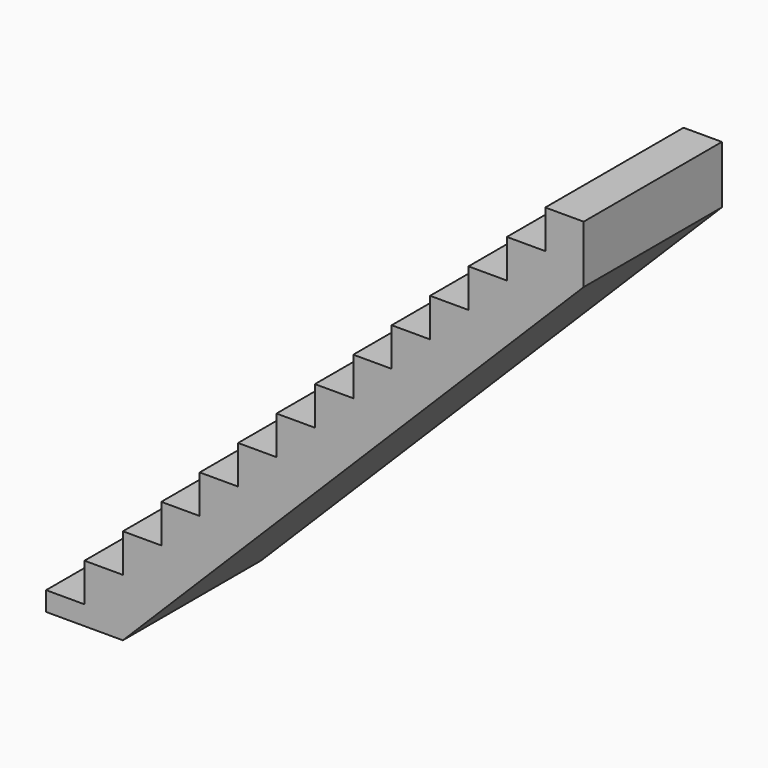
from build123d import *

# Parameters (mm, degrees)
F1_DEPTH = 914.4


with BuildPart() as f1:
    # F0 (on Front) → F1 (new body)
    with BuildSketch(Plane.XZ):
        Polygon((203.2, 0), (0, 0), (0, -203.2), (-203.2, -203.2), (-203.2, -406.4), (-406.4, -406.4), (-406.4, -609.6), (-609.6, -609.6), (-609.6, -812.8), (-812.8, -812.8), (-812.8, -1016), (-1016, -1016), (-1016, -1219.2), (-1219.2, -1219.2), (-1219.2, -1422.4), (-1422.4, -1422.4), (-1422.4, -1625.6), (-1625.6, -1625.6), (-1625.6, -1828.8), (-1828.8, -1828.8), (-1828.8, -2032), (-2032, -2032), (-2032, -2235.2), (-2235.2, -2235.2), (-2235.2, -2438.4), (-2438.4, -2438.4), (-2438.4, -2641.6), (-2641.6, -2641.6), (-2641.6, -2743.2), (-2235.2, -2743.2), (203.2, -304.8), align=None)
    extrude(amount=F1_DEPTH)


solid = f1.part
